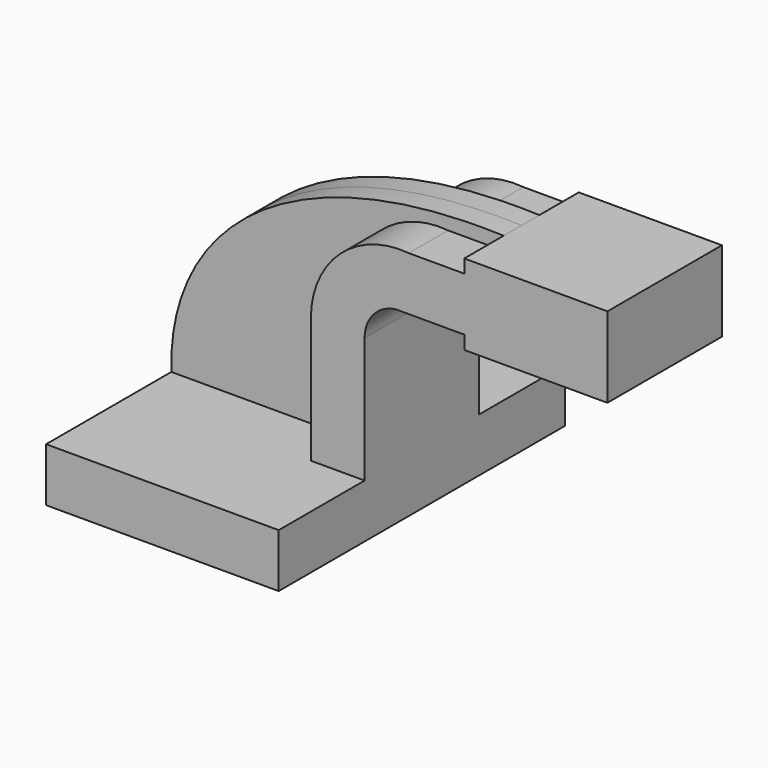
from build123d import *

# Parameters (mm, degrees)
F1_DEPTH = 63.5
F0_W     = 21.5476495911
F0_H     = 19.05
F0_H_2   = 4.74163435
F0_H_3   = 4.78336565
F2_DEPTH = 25.4
F3_DEPTH = 7.9375


with BuildPart() as f1:
    # F0 (on Front) → F1 (new body, symmetric)
    with BuildSketch(Plane.XZ):
        Polygon((2.2602985501, -25.8045658022), (-61.2397014499, -25.8045658022), (-61.2397014499, -44.8545658022), (21.3102985501, -44.8545658022), (21.3102985501, -25.8045658022), align=None)
    extrude(amount=F1_DEPTH, both=True)

    # F0 (on Front) → F2 (join, symmetric)
    with BuildSketch(Plane.XZ):
        with BuildLine():
            Line((2.2602985501, 18.735807389), (2.2602985501, -25.8045658022))
            Line((2.2602985501, -25.8045658022), (21.3102985501, -25.8045658022))
            Line((21.3102985501, -25.8045658022), (21.3102985501, 18.735807389))
            ThreePointArc((21.3102985501, 18.735807389), (24.3886183402, 27.025154163), (32.131285942, 31.2960347603))
            Line((32.131285942, 31.2960347603), (56.6837708669, 31.2960347603))
            Line((56.6837708669, 31.2960347603), (56.6837708669, 50.3460347603))
            Line((56.6837708669, 50.3460347603), (36.9862060647, 50.3460347603))
            ThreePointArc((36.9862060647, 50.3460347603), (12.6376824677, 42.2150276017), (2.2602985501, 18.735807389))
        make_face()
        with Locations((67.4575956625, 40.8210347603)):
            Rectangle(F0_W, F0_H)
        Polygon((107.4837708669, 55.0876691103), (78.231420458, 55.0876691103), (78.231420458, 50.3460347603), (78.231420458, 31.2960347603), (78.231420458, 26.5126691103), (107.4837708669, 26.5126691103), align=None)
        with Locations((67.4575956625, 52.7168519353)):
            Rectangle(F0_W, F0_H_2)
        with Locations((67.4575956625, 28.9043519353)):
            Rectangle(F0_W, F0_H_3)
    extrude(amount=F2_DEPTH, both=True)

    # F0 (on Front) → F3 (join, symmetric)
    with BuildSketch(Plane.XZ):
        with BuildLine():
            add(Edge.make_bspline(
                [(-61.2397014499, -25.8045658022), (-62.6449435949, 22.3603788763), (-18.7473557889, 57.8006356955), (56.6837708669, 55.0876691103)],
                knots=[0, 0, 0, 0, 143.001744718, 143.001744718, 143.001744718, 143.001744718], degree=3))
            Line((-61.2397014499, -25.8045658022), (2.2602985501, -25.8045658022))
            Line((2.2602985501, -25.8045658022), (2.2602985501, 18.735807389))
            ThreePointArc((2.2602985501, 18.735807389), (12.6376824677, 42.2150276017), (36.9862060647, 50.3460347603))
            Line((36.9862060647, 50.3460347603), (56.6837708669, 50.3460347603))
            Line((56.6837708669, 50.3460347603), (56.6837708669, 55.0876691103))
        make_face()
    extrude(amount=F3_DEPTH, both=True)


solid = f1.part
